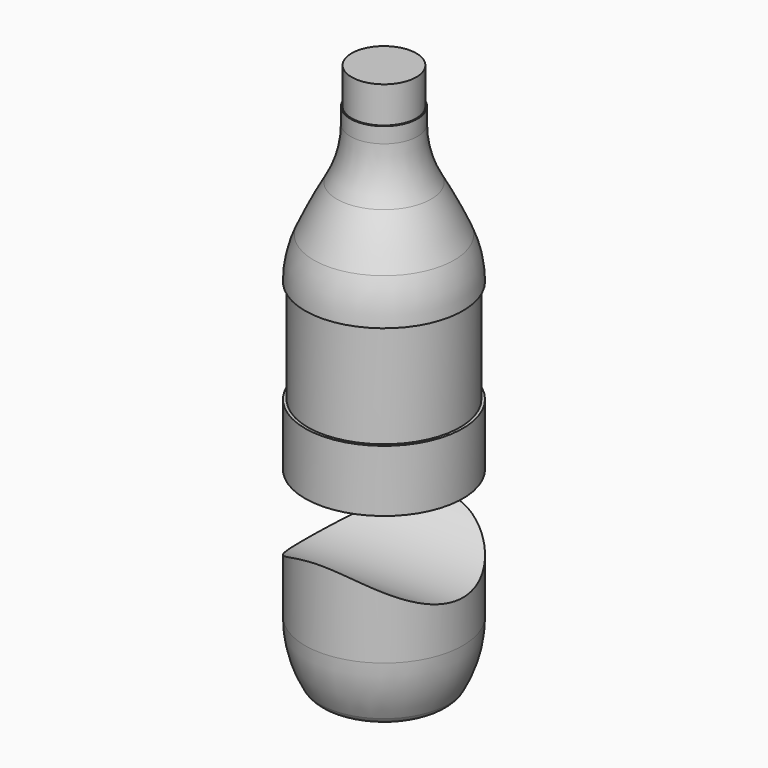
from build123d import *

# Parameters (mm, degrees)
F3_DEPTH = 1016


with BuildPart() as f1:
    # F0 (on Front) → F1 (revolve)
    with BuildSketch(Plane.XZ):
        with BuildLine():
            Line((0, 190.5), (0, 5397.5))
            Line((0, 5397.5), (-317.5, 5397.5))
            Line((-317.5, 5397.5), (-317.5, 5041.9))
            Line((-317.5, 5041.9), (-330.2, 5041.9))
            Line((-330.2, 5041.9), (-330.2, 4889.5))
            ThreePointArc((-330.2, 4889.5), (-363.629477, 4631.021438), (-461.718045, 4389.552331))
            ThreePointArc((-461.718045, 4389.552331), (-580.773538, 4166.103342), (-688.547932, 3937))
            ThreePointArc((-688.547932, 3937), (-752.928721, 3736.764256), (-774.7, 3527.562797))
            Line((-774.7, 3527.562797), (-746.76, 3527.562797))
            Line((-746.76, 3527.562797), (-746.76, 2511.562797))
            Line((-746.76, 2511.562797), (-774.7, 2511.562797))
            Line((-774.7, 2511.562797), (-774.7, 635))
            ThreePointArc((-774.7, 635), (-738.315988, 348.905512), (-631.480304, 81.024962))
            ThreePointArc((-631.480304, 81.024962), (-535.807549, 7.207407), (-416.475564, 26.23856))
            ThreePointArc((-416.475564, 26.23856), (-216.06899, 128.224864), (0, 190.5))
        make_face()
    revolve(axis=Axis((0, 0, 2794), (0, 0, -1)))

    # F2 (on Right) → F3 (cut, symmetric)
    with BuildSketch(Plane.YZ):
        with BuildLine():
            Line((774.7, 1382.433891), (774.7, 1905.725598))
            Line((774.7, 1905.725598), (-774.7, 1905.725598))
            Line((-774.7, 1905.725598), (-774.7, 1388.590217))
            ThreePointArc((-774.7, 1388.590217), (-1.335042, 1049.513938), (774.7, 1382.433891))
        make_face()
    extrude(amount=F3_DEPTH, both=True, mode=Mode.SUBTRACT)


solid = f1.part
